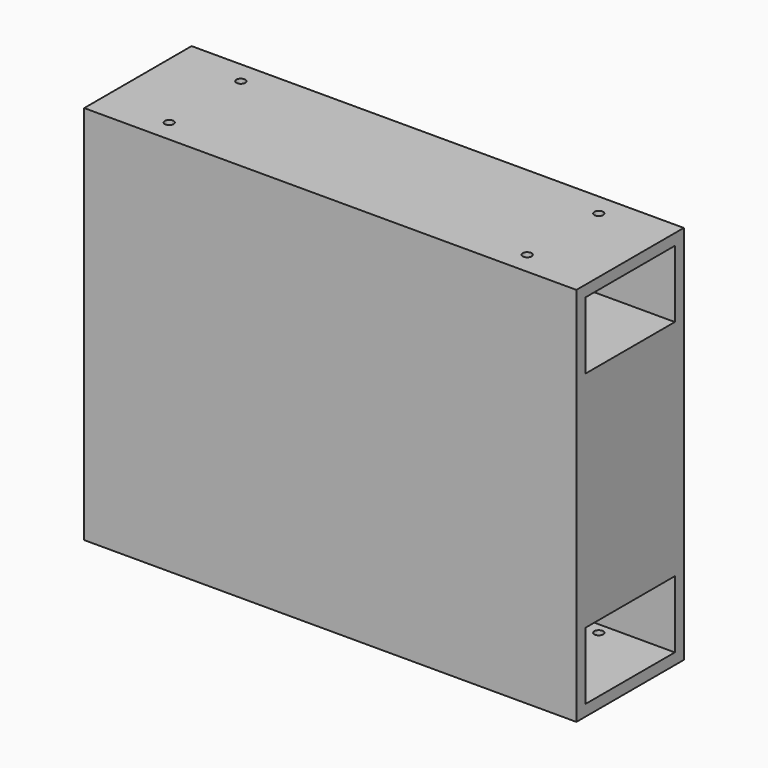
from build123d import *

# Parameters (mm, degrees)
F0_W      = 279.4
F0_H      = 76.2
F0_W_2    = 266.7
F0_H_2    = 63.5
F1_DEPTH  = 38.1
F2_W      = 279.4
F2_H      = 76.2
F3_DEPTH  = 6.35
F4_W      = 63.5
F4_H      = 38.1
F5_DEPTH  = 25
F6_W      = 279.4
F6_H      = 76.2
F7_DEPTH  = 127
F8_W      = 279.4
F8_H      = 76.2
F8_W_2    = 266.7
F8_H_2    = 63.5
F9_DEPTH  = 38.1
F10_W     = 63.5
F10_H     = 38.1
F11_DEPTH = 25
F12_W     = 279.4
F12_H     = 76.2
F13_DEPTH = 6.35
F14_R     = 2.5
F15_DEPTH = 6.35
F16_R     = 2.5
F17_DEPTH = 6.35


with BuildPart() as f1:
    # F0 (on Top) → F1 (new body)
    with BuildSketch(Plane.XY):
        Rectangle(F0_W, F0_H)
        Rectangle(F0_W_2, F0_H_2, mode=Mode.SUBTRACT)
    extrude(amount=F1_DEPTH)

    # F2 (on face) → F3 (join)
    with BuildSketch(Plane(origin=(0, 0, 0), x_dir=(1, 0, 0), z_dir=(0, 0, -1))):
        Rectangle(F2_W, F2_H)
    extrude(amount=F3_DEPTH)

    # F4 (on face) → F5 (cut)
    with BuildSketch(Plane(origin=(133.35, 0, 0), x_dir=(0, -1, 0), z_dir=(-1, 0, 0))):
        with Locations((0, 19.05)):
            Rectangle(F4_W, F4_H)
    extrude(amount=-F5_DEPTH, mode=Mode.SUBTRACT)

    # F6 (on face) → F7 (join)
    with BuildSketch(Plane.XY.offset(38.1)):
        Rectangle(F6_W, F6_H)
    extrude(amount=F7_DEPTH)

    # F8 (on face) → F9 (join)
    with BuildSketch(Plane.XY.offset(165.1)):
        Rectangle(F8_W, F8_H)
        Rectangle(F8_W_2, F8_H_2, mode=Mode.SUBTRACT)
    extrude(amount=F9_DEPTH)

    # F10 (on face) → F11 (cut)
    with BuildSketch(Plane(origin=(133.35, 0, 0), x_dir=(0, -1, 0), z_dir=(-1, 0, 0))):
        with Locations((0, 184.15)):
            Rectangle(F10_W, F10_H)
    extrude(amount=-F11_DEPTH, mode=Mode.SUBTRACT)

    # F12 (on face) → F13 (join)
    with BuildSketch(Plane.XY.offset(203.2)):
        Rectangle(F12_W, F12_H)
    extrude(amount=F13_DEPTH)

    # F14 (on face) → F15 (cut, through all)
    with BuildSketch(Plane.XY.offset(209.55)):
        with Locations((101.6, 25.4)):
            Circle(F14_R)
        with Locations((101.6, -25.4)):
            Circle(F14_R)
        with Locations((-101.6, 25.4)):
            Circle(F14_R)
        with Locations((-101.6, -25.4)):
            Circle(F14_R)
    extrude(amount=-F15_DEPTH, mode=Mode.SUBTRACT)

    # F16 (on face) → F17 (cut, through all)
    with BuildSketch(Plane(origin=(0, 0, -6.35), x_dir=(1, 0, 0), z_dir=(0, 0, -1))):
        with Locations((-101.6, -25.4)):
            Circle(F16_R)
        with Locations((-101.6, 25.4)):
            Circle(F16_R)
        with Locations((101.6, -25.4)):
            Circle(F16_R)
        with Locations((101.6, 25.4)):
            Circle(F16_R)
    extrude(amount=-F17_DEPTH, mode=Mode.SUBTRACT)


solid = f1.part
